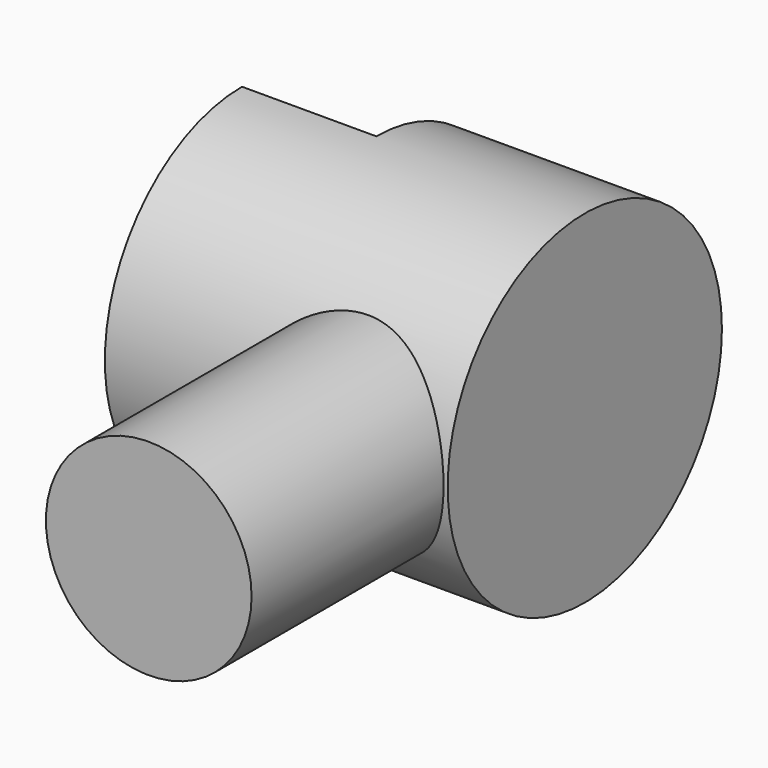
from build123d import *

# Parameters (mm, degrees)
F1_R     = 7.5
F2_DEPTH = 30
F3_R     = 12.5
F4_DEPTH = 25
F5_R     = 11
F6_DEPTH = 18.1
F8_W     = 15
F8_H     = 30.954544
F9_DEPTH = 25


with BuildPart() as f2:
    # F1 (on Front) → F2 (new body)
    with BuildSketch(Plane.XZ):
        Circle(F1_R)
    extrude(amount=F2_DEPTH)

    # F3 (on offset) → F4 (join)
    with BuildSketch(Plane.YZ.offset(7.8)):
        Circle(F3_R)
    extrude(amount=-F4_DEPTH)

    # F5 (on face) → F6 (cut)
    with BuildSketch(Plane(origin=(-17.2, 0, 0), x_dir=(0, -1, 0), z_dir=(-1, 0, 0))):
        Circle(F5_R)
    extrude(amount=-F6_DEPTH, mode=Mode.SUBTRACT)

    # F8 (on offset) → F9 (cut)
    with BuildSketch(Plane.YZ.offset(-7.4)):
        with Locations((7.5, 0)):
            Rectangle(F8_W, F8_H)
    extrude(amount=-F9_DEPTH, mode=Mode.SUBTRACT)


solid = f2.part
